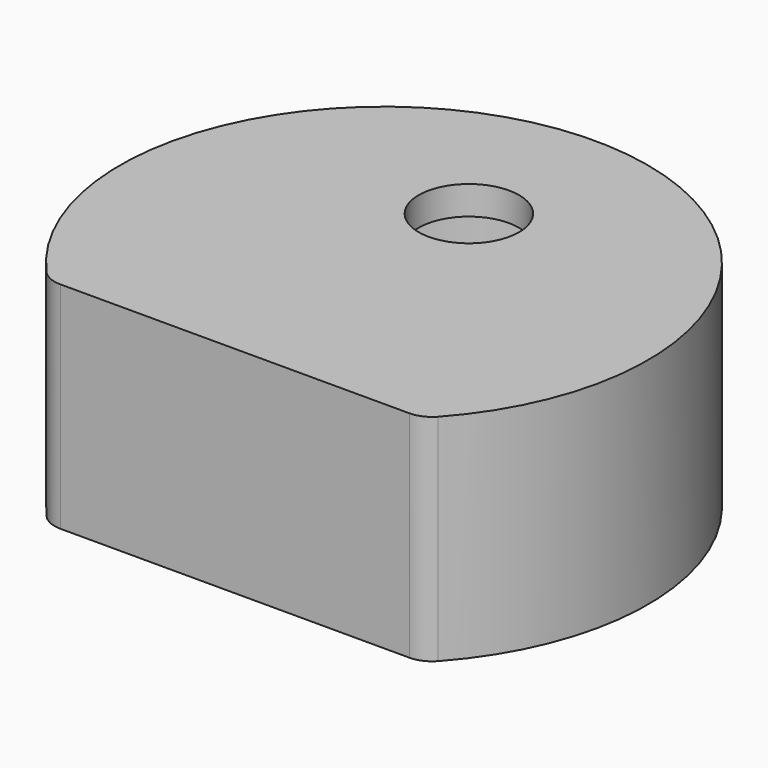
from build123d import *

# Parameters (mm, degrees)
F0_R     = 9.25
F1_DEPTH = 13
F2_R     = 3.5
F3_DEPTH = 2


with BuildPart() as f1:
    # F0 (on Top) → F1 (new body)
    with BuildSketch(Plane.XY):
        with BuildLine():
            ThreePointArc((12.163881, -13), (12.975384, -12.827967), (13.647281, -12.341463))
            ThreePointArc((13.647281, -12.341463), (0, 18.4), (-13.647281, -12.341463))
            ThreePointArc((-13.647281, -12.341463), (-12.975384, -12.827967), (-12.163881, -13))
            Line((-12.163881, -13), (12.163881, -13))
        make_face()
        with BuildLine():
            ThreePointArc((-12.836264, 10.207367), (-11.640729, 10.495772), (-11.0696, 9.406602))
            ThreePointArc((-11.0696, 9.406602), (-10.781929, 4.188691), (-8.167759, -0.336292))
            ThreePointArc((-8.167759, -0.336292), (-7.627382, -1.537703), (-7.951415, -2.814573))
            Line((-7.951415, -2.814573), (-11.153205, -7.65784))
            ThreePointArc((-11.153205, -7.65784), (-12.933064, -8.551791), (-14.602371, -7.465303))
            ThreePointArc((-14.602371, -7.465303), (-16.318716, 1.630801), (-12.836264, 10.207367))
        make_face(mode=Mode.SUBTRACT)
        with BuildLine():
            Line((7.245438, -11), (-7.245438, -11))
            ThreePointArc((-7.245438, -11), (-9.006954, -9.947133), (-8.913827, -7.89706))
            Line((-8.913827, -7.89706), (-6.283026, -3.917512))
            ThreePointArc((-6.283026, -3.917512), (-5.235164, -3.119151), (-3.918087, -3.145667))
            ThreePointArc((-3.918087, -3.145667), (0, -3.85), (3.918087, -3.145667))
            ThreePointArc((3.918087, -3.145667), (5.235164, -3.119151), (6.283026, -3.917512))
            Line((6.283026, -3.917512), (8.913827, -7.89706))
            ThreePointArc((8.913827, -7.89706), (9.006954, -9.947133), (7.245438, -11))
        make_face(mode=Mode.SUBTRACT)
        with BuildLine():
            ThreePointArc((12.836264, 10.207367), (16.318716, 1.630801), (14.602371, -7.465303))
            ThreePointArc((14.602371, -7.465303), (12.933064, -8.551791), (11.153205, -7.65784))
            Line((11.153205, -7.65784), (7.951415, -2.814573))
            ThreePointArc((7.951415, -2.814573), (7.627382, -1.537703), (8.167759, -0.336292))
            ThreePointArc((8.167759, -0.336292), (10.781929, 4.188691), (11.0696, 9.406602))
            ThreePointArc((11.0696, 9.406602), (11.640729, 10.495772), (12.836264, 10.207367))
        make_face(mode=Mode.SUBTRACT)
        with Locations((0, 7.4)):
            Circle(F0_R, mode=Mode.SUBTRACT)
    extrude(amount=F1_DEPTH)

    # F2 (on face) → F3 (join)
    with BuildSketch(Plane.XY.offset(13)):
        with BuildLine():
            ThreePointArc((12.163881, -13), (12.975384, -12.827967), (13.647281, -12.341463))
            ThreePointArc((13.647281, -12.341463), (0, 18.4), (-13.647281, -12.341463))
            ThreePointArc((-13.647281, -12.341463), (-12.975384, -12.827967), (-12.163881, -13))
            Line((-12.163881, -13), (12.163881, -13))
        make_face()
        with Locations((0, 7.4)):
            Circle(F2_R, mode=Mode.SUBTRACT)
    extrude(amount=F3_DEPTH)


solid = f1.part
